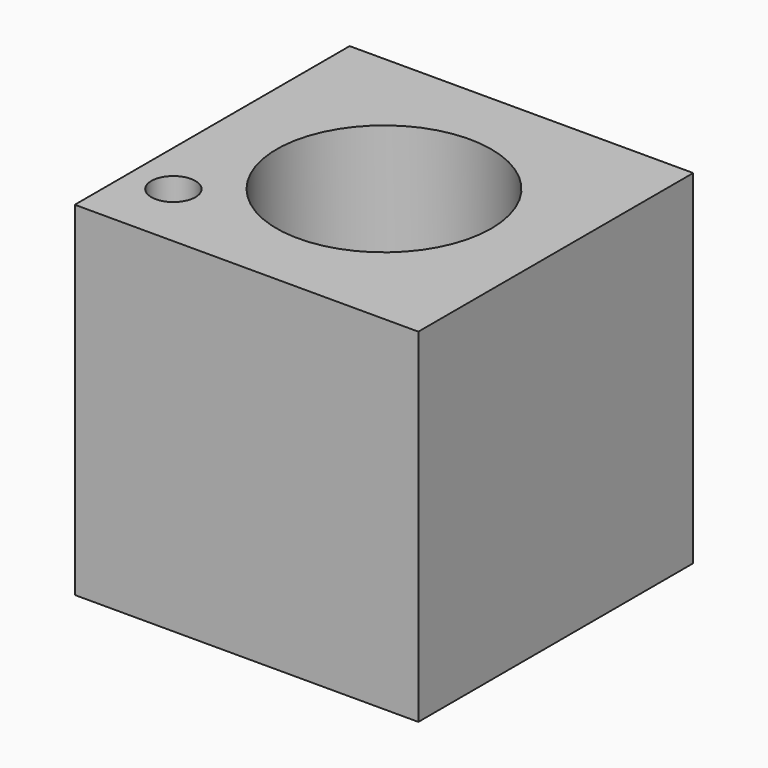
from build123d import *

# Parameters (mm, degrees)
F0_W     = 101.6
F0_H     = 101.6
F1_DEPTH = 50.8
F2_R     = 31.75
F3_DEPTH = 101.601
F4_R     = 6.517177
F5_DEPTH = 101.601


with BuildPart() as f1:
    # F0 (on Front) → F1 (new body, symmetric)
    with BuildSketch(Plane.XZ):
        Rectangle(F0_W, F0_H)
    extrude(amount=F1_DEPTH, both=True)

    # F2 (on face) → F3 (cut, through all)
    with BuildSketch(Plane.XY.offset(50.8)):
        Circle(F2_R)
    extrude(amount=-F3_DEPTH, mode=Mode.SUBTRACT)

    # F4 (on face) → F5 (cut, through all)
    with BuildSketch(Plane.XY.offset(50.8)):
        with Locations((-37.914988, -30.449271)):
            Circle(F4_R)
    extrude(amount=-F5_DEPTH, mode=Mode.SUBTRACT)


solid = f1.part
